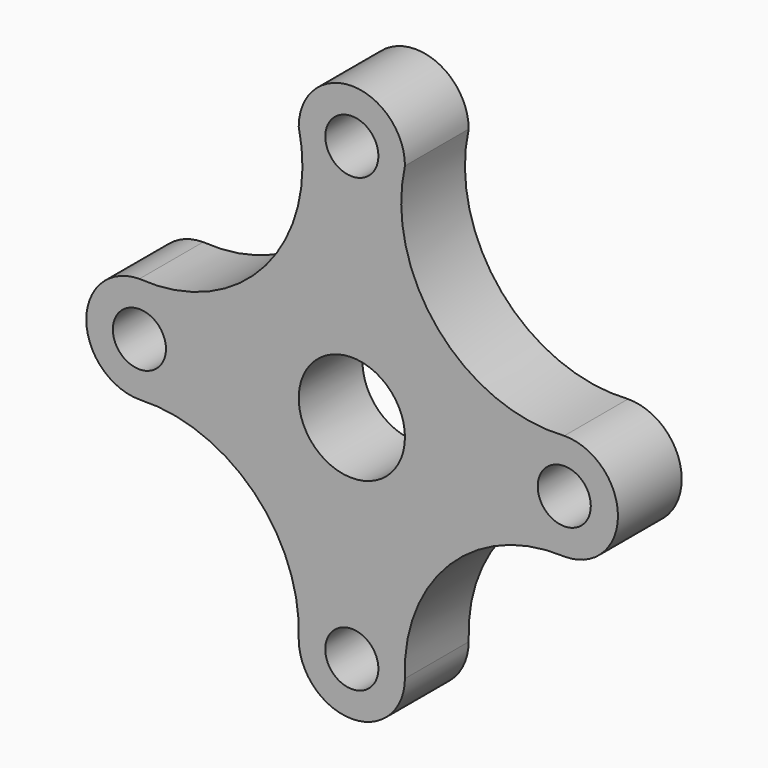
from build123d import *

# Parameters (mm, degrees)
F0_R     = 6.35
F0_R_2   = 12.7
F1_DEPTH = 19.05


with BuildPart() as f1:
    # F0 (on Front) → F1 (new body)
    with BuildSketch(Plane.XZ):
        with BuildLine():
            ThreePointArc((-50.8, -12.7), (-23.358147, -23.358147), (-12.7, -50.8))
            ThreePointArc((-12.7, -50.8), (0, -63.411131), (12.7, -50.8))
            ThreePointArc((12.7, -50.8), (23.358147, -23.358147), (50.8, -12.7))
            ThreePointArc((50.8, -12.7), (63.644343, 0), (50.8, 12.7))
            ThreePointArc((50.8, 12.7), (20.598052, 25.366187), (12.7, 57.15))
            ThreePointArc((12.7, 57.15), (0, 69.85), (-12.7, 57.15))
            ThreePointArc((-12.7, 57.15), (-20.598052, 25.366187), (-50.8, 12.7))
            ThreePointArc((-50.8, 12.7), (-63.5, 0), (-50.8, -12.7))
        make_face()
        with Locations((0, -50.8)):
            Circle(F0_R, mode=Mode.SUBTRACT)
        with Locations((-50.8, 0)):
            Circle(F0_R, mode=Mode.SUBTRACT)
        Circle(F0_R_2, mode=Mode.SUBTRACT)
        with Locations((50.8, 0)):
            Circle(F0_R, mode=Mode.SUBTRACT)
        with Locations((0, 57.15)):
            Circle(F0_R, mode=Mode.SUBTRACT)
    extrude(amount=F1_DEPTH)


solid = f1.part
